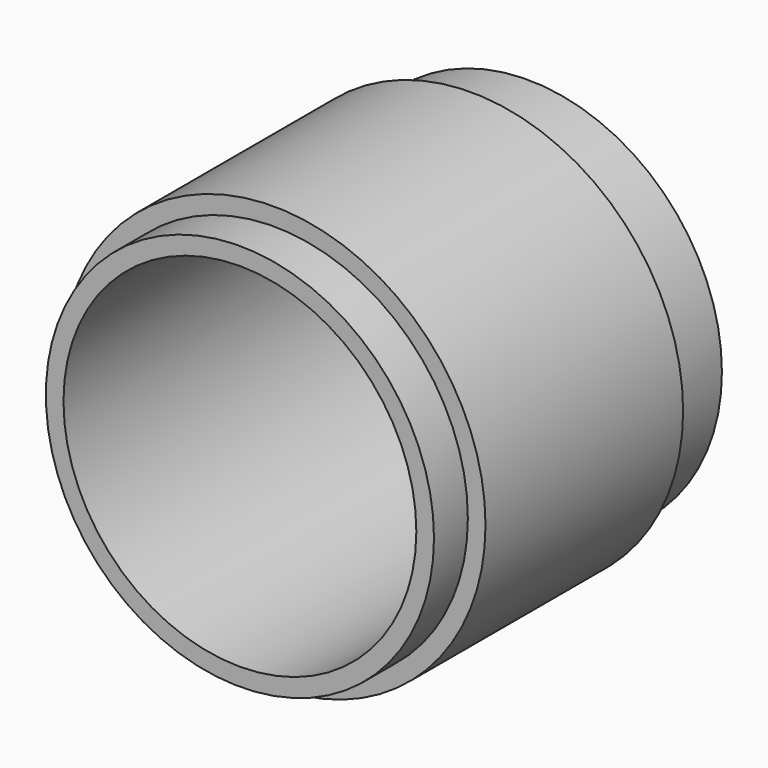
from build123d import *

# Parameters (mm, degrees)
F0_R     = 30
F0_R_2   = 27.5
F0_R_3   = 25
F1_DEPTH = 35
F2_DEPTH = 10
F3_R     = 27.5
F3_R_2   = 25
F4_DEPTH = 6


with BuildPart() as f1:
    # F0 (on Front) → F1 (new body)
    with BuildSketch(Plane.XZ):
        Circle(F0_R)
        Circle(F0_R_2, mode=Mode.SUBTRACT)
        Circle(F0_R_2)
        Circle(F0_R_3, mode=Mode.SUBTRACT)
    extrude(amount=F1_DEPTH)

    # F0 (on Front) → F2 (join)
    with BuildSketch(Plane.XZ):
        Circle(F0_R_2)
        Circle(F0_R_3, mode=Mode.SUBTRACT)
    extrude(amount=-F2_DEPTH)

    # F3 (on face) → F4 (join)
    with BuildSketch(Plane.XZ.offset(35)):
        Circle(F3_R)
        Circle(F3_R_2, mode=Mode.SUBTRACT)
    extrude(amount=F4_DEPTH)


solid = f1.part
